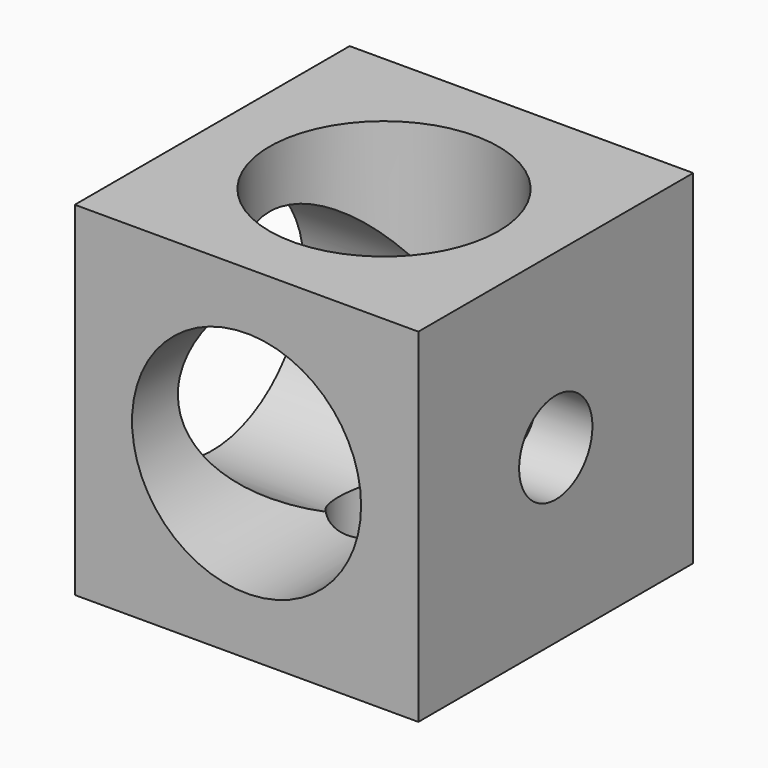
from build123d import *

# Parameters (mm, degrees)
F0_W           = 15
F0_H           = 15
F1_DEPTH       = 7.5
F3_D           = 4
F3_CBORE_D     = 10
F3_CBORE_DEPTH = 10
F5_D           = 4
F5_CBORE_D     = 10
F5_CBORE_DEPTH = 10
F7_D           = 4
F7_CBORE_D     = 10
F7_CBORE_DEPTH = 10


with BuildPart() as f1:
    # F0 (on Front) → F1 (new body, symmetric)
    with BuildSketch(Plane.XZ):
        Rectangle(F0_W, F0_H)
    extrude(amount=F1_DEPTH, both=True)

    # F3 (through all)
    with Locations(Plane.XZ.offset(7.5)):
        with Locations((0, 0)):
            CounterBoreHole(F3_D / 2, F3_CBORE_D / 2, F3_CBORE_DEPTH)

    # F5 (through all)
    with Locations(Plane.XY.offset(7.5)):
        with Locations((0, 0)):
            CounterBoreHole(F5_D / 2, F5_CBORE_D / 2, F5_CBORE_DEPTH)

    # F7 (through all)
    with Locations(Plane(origin=(-7.5, 0, 0), x_dir=(0, -1, 0), z_dir=(-1, 0, 0))):
        with Locations((0, 0)):
            CounterBoreHole(F7_D / 2, F7_CBORE_D / 2, F7_CBORE_DEPTH)


solid = f1.part
